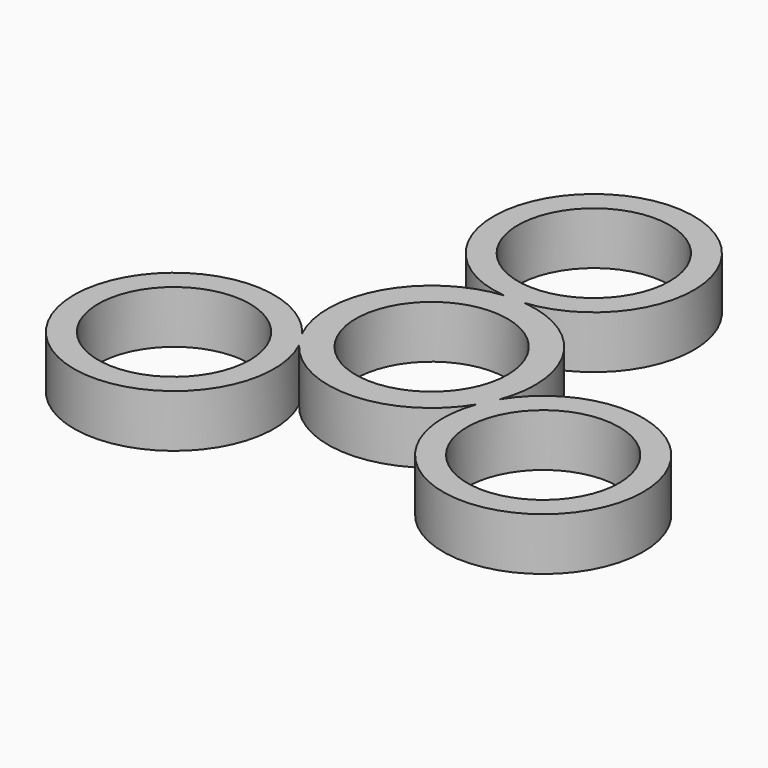
from build123d import *

# Parameters (mm, degrees)
F0_R     = 10.9855
F1_DEPTH = 7.62


with BuildPart() as f1:
    # F0 (on Top) → F1 (new body)
    with BuildSketch(Plane.XY):
        with BuildLine():
            ThreePointArc((14.0419, -5.235001), (12.701397, 7.953283), (1.422402, 14.918343))
            ThreePointArc((1.422402, 14.918343), (0, 43.819338), (-1.422402, 14.918343))
            ThreePointArc((-1.422402, 14.918343), (-13.0775, 7.318414), (-13.459088, -6.590384))
            ThreePointArc((-13.459088, -6.590384), (-37.347888, -22.918762), (-11.971174, -9.015053))
            ThreePointArc((-11.971174, -9.015053), (0.737688, -14.967833), (12.799618, -7.794227))
            ThreePointArc((12.799618, -7.794227), (39.420515, -19.13524), (14.0419, -5.235001))
        make_face()
        with Locations((-25.001676, -15.342433)):
            Circle(F0_R, mode=Mode.SUBTRACT)
        Circle(F0_R, mode=Mode.SUBTRACT)
        with Locations((26.389148, -12.809642)):
            Circle(F0_R, mode=Mode.SUBTRACT)
        with Locations((0, 29.333838)):
            Circle(F0_R, mode=Mode.SUBTRACT)
    extrude(amount=F1_DEPTH)


solid = f1.part
